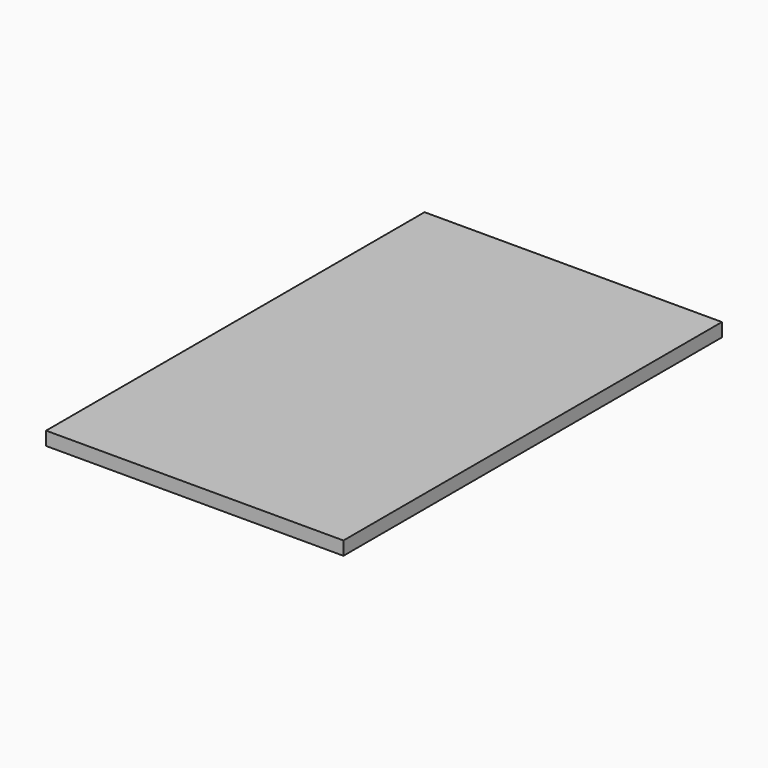
from build123d import *

# Parameters (mm, degrees)
F0_W     = 838.2
F0_H     = 1333.5
F0_W_2   = 762
F0_H_2   = 1257.3
F1_DEPTH = 38.1


with BuildPart() as f1:
    # F0 (on Top) → F1 (new body)
    with BuildSketch(Plane.XY):
        Rectangle(F0_W, F0_H)
        Rectangle(F0_W_2, F0_H_2, mode=Mode.SUBTRACT)
        Rectangle(F0_W_2, F0_H_2)
    extrude(amount=F1_DEPTH)


solid = f1.part
